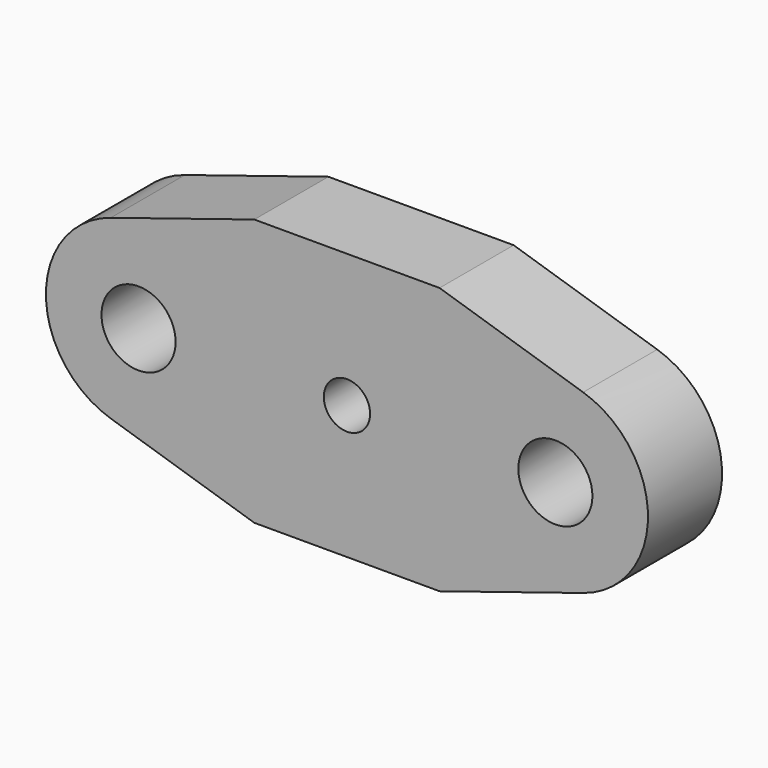
from build123d import *

# Parameters (mm, degrees)
F1_DEPTH = 4
F2_R     = 1.6
F3_DEPTH = 4.001
F4_R     = 1
F5_DEPTH = 4.001


with BuildPart() as f1:
    # F0 (on Front) → F1 (new body)
    with BuildSketch(Plane.XZ):
        with BuildLine():
            Line((-4, 5.765), (-10.199683, 3.815857))
            ThreePointArc((-10.199683, 3.815857), (-13, 0), (-10.199683, -3.815857))
            Line((-10.199683, -3.815857), (-4, -5.765))
            Line((-4, -5.765), (4, -5.765))
            Line((4, -5.765), (10.199683, -3.815857))
            ThreePointArc((10.199683, -3.815857), (13, 0), (10.199683, 3.815857))
            Line((10.199683, 3.815857), (4, 5.765))
            Line((4, 5.765), (-4, 5.765))
        make_face()
    extrude(amount=F1_DEPTH)

    # F2 (on face) → F3 (cut, through all)
    with BuildSketch(Plane.XZ.offset(4)):
        with Locations((-9, 0)):
            Circle(F2_R)
        with Locations((9, 0)):
            Circle(F2_R)
    extrude(amount=-F3_DEPTH, mode=Mode.SUBTRACT)

    # F4 (on face) → F5 (cut, through all)
    with BuildSketch(Plane.XZ.offset(4)):
        Circle(F4_R)
    extrude(amount=-F5_DEPTH, mode=Mode.SUBTRACT)


solid = f1.part
